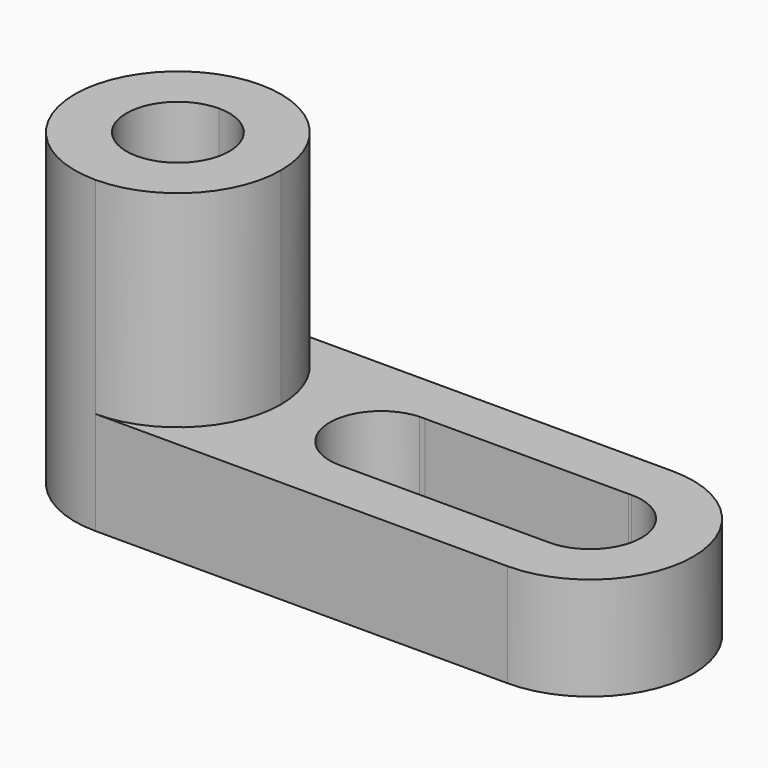
from build123d import *

# Parameters (mm, degrees)
F1_DEPTH = 38.1
F2_DEPTH = 12.7


with BuildPart() as f1:
    # F0 (on Top) → F1 (new body)
    with BuildSketch(Plane.XY):
        with BuildLine():
            Line((-69.488468, 41.047884), (-69.488468, 47.397884))
            ThreePointArc((-69.488468, 47.397884), (-82.188468, 34.697884), (-69.488468, 21.997884))
            Line((-69.488468, 21.997884), (-69.488468, 28.347884))
            ThreePointArc((-69.488468, 28.347884), (-75.838468, 34.697884), (-69.488468, 41.047884))
        make_face()
        with BuildLine():
            ThreePointArc((-56.788468, 34.697884), (-60.508212, 43.67814), (-69.488468, 47.397884))
            Line((-69.488468, 47.397884), (-69.488468, 41.047884))
            ThreePointArc((-69.488468, 41.047884), (-64.99834, 39.188012), (-63.138468, 34.697884))
            ThreePointArc((-63.138468, 34.697884), (-64.99834, 30.207756), (-69.488468, 28.347884))
            Line((-69.488468, 28.347884), (-69.488468, 21.997884))
            ThreePointArc((-69.488468, 21.997884), (-60.508212, 25.717628), (-56.788468, 34.697884))
        make_face()
    extrude(amount=F1_DEPTH)

    # F0 (on Top) → F2 (join)
    with BuildSketch(Plane.XY):
        with BuildLine():
            Line((-69.488468, 41.047884), (-69.488468, 47.397884))
            ThreePointArc((-69.488468, 47.397884), (-82.188468, 34.697884), (-69.488468, 21.997884))
            Line((-69.488468, 21.997884), (-69.488468, 28.347884))
            ThreePointArc((-69.488468, 28.347884), (-75.838468, 34.697884), (-69.488468, 41.047884))
        make_face()
        with BuildLine():
            Line((-18.688468, 47.397884), (-69.488468, 47.397884))
            ThreePointArc((-69.488468, 47.397884), (-60.508212, 43.67814), (-56.788468, 34.697884))
            ThreePointArc((-56.788468, 34.697884), (-60.508212, 25.717628), (-69.488468, 21.997884))
            Line((-69.488468, 21.997884), (-18.688468, 21.997884))
            Line((-18.688468, 21.997884), (-18.688468, 28.347884))
            ThreePointArc((-18.688468, 28.347884), (-18.859544, 28.350189), (-19.030495, 28.357102))
            Line((-19.030495, 28.357102), (-44.430494, 28.347884))
            ThreePointArc((-44.430494, 28.347884), (-50.780462, 34.525656), (-44.774825, 41.038666))
            ThreePointArc((-44.774825, 41.038666), (-44.432798, 41.047884), (-44.090771, 41.038666))
            Line((-44.090771, 41.038666), (-19.030495, 41.038666))
            ThreePointArc((-19.030495, 41.038666), (-18.859544, 41.045579), (-18.688468, 41.047884))
            Line((-18.688468, 41.047884), (-18.688468, 47.397884))
        make_face()
        with BuildLine():
            ThreePointArc((-18.688468, 21.997884), (-5.988468, 34.697884), (-18.688468, 47.397884))
            Line((-18.688468, 47.397884), (-18.688468, 41.047884))
            ThreePointArc((-18.688468, 41.047884), (-14.19834, 39.188012), (-12.338468, 34.697884))
            ThreePointArc((-12.338468, 34.697884), (-14.19834, 30.207756), (-18.688468, 28.347884))
            Line((-18.688468, 28.347884), (-18.688468, 21.997884))
        make_face()
    extrude(amount=F2_DEPTH)


solid = f1.part
